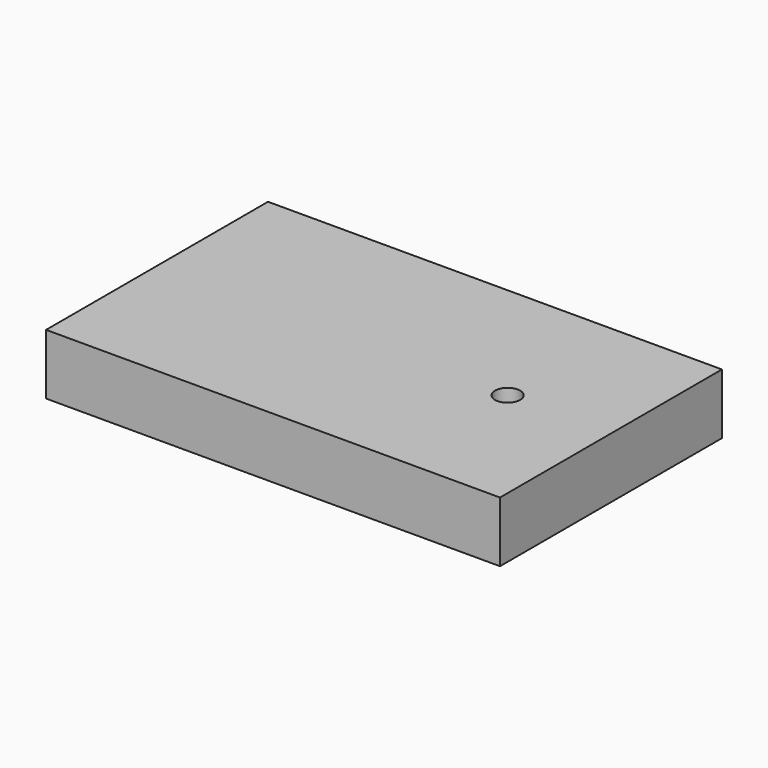
from build123d import *

# Parameters (mm, degrees)
F0_W     = 90
F0_H     = 55
F1_DEPTH = 12
F3_D     = 5
F3_DEPTH = 12


with BuildPart() as f1:
    # F0 (on Top) → F1 (new body)
    with BuildSketch(Plane.XY):
        with Locations((45, -27.5)):
            Rectangle(F0_W, F0_H)
    extrude(amount=F1_DEPTH)

    # F3
    with Locations(Plane.XY.offset(12)):
        with Locations((69.5, -27.5)):
            Hole(F3_D / 2, depth=F3_DEPTH)


solid = f1.part
